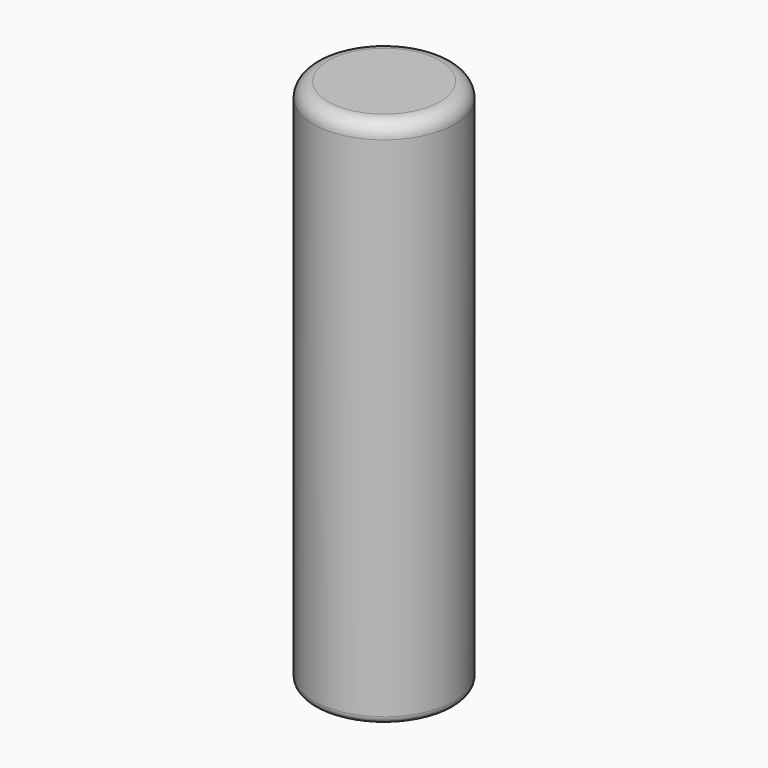
from build123d import *

# Parameters (mm, degrees)
F0_R     = 19
F1_DEPTH = 135
F2_R     = 4
F3_R     = 19
F4_DEPTH = 7.5
F5_R     = 15
F6_DEPTH = 135.7
F7_R     = 2


with BuildPart() as f1:
    # F0 (on Top) → F1 (new body)
    with BuildSketch(Plane.XY):
        Circle(F0_R)
    extrude(amount=F1_DEPTH)

    # F2
    f2_edges = [f1.edges().sort_by_distance(p)[0] for p in [
        (-19, 0, 135),
    ]]
    fillet(f2_edges, radius=F2_R)

    # F3 (on Top) → F4 (join)
    with BuildSketch(Plane.XY):
        Circle(F3_R)
    extrude(amount=-F4_DEPTH)

    # F5 (on face) → F6 (cut)
    with BuildSketch(Plane(origin=(0, 0, -7.5), x_dir=(1, 0, 0), z_dir=(0, 0, -1))):
        Circle(F5_R)
    extrude(amount=-F6_DEPTH, mode=Mode.SUBTRACT)

    # F7
    f7_edges = [f1.edges().sort_by_distance(p)[0] for p in [
        (-19, 0, -7.5),
    ]]
    fillet(f7_edges, radius=F7_R)


solid = f1.part
